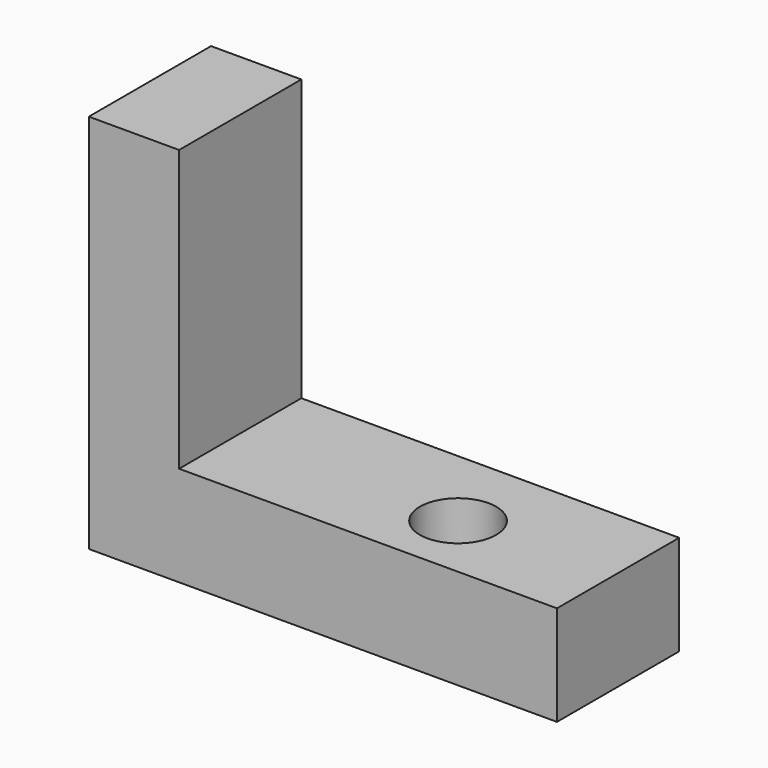
from build123d import *

# Parameters (mm, degrees)
F1_DEPTH = 25.4
F2_R     = 6.35
F3_DEPTH = 25.4


with BuildPart() as f1:
    # F0 (on Front) → F1 (new body)
    with BuildSketch(Plane.XZ):
        Polygon((-28.737951, 39.518028), (-43.749195, 39.518028), (-43.749195, -23.760144), (-28.737951, -23.760144), (34.078334, -23.760144), (34.078334, -7.132303), (-28.737951, -7.132303), align=None)
    extrude(amount=F1_DEPTH)

    # F2 (on face) → F3 (cut)
    with BuildSketch(Plane.XY.offset(-7.132303)):
        with Locations((8.678334, -14.20567)):
            Circle(F2_R)
    extrude(amount=-F3_DEPTH, mode=Mode.SUBTRACT)


solid = f1.part
